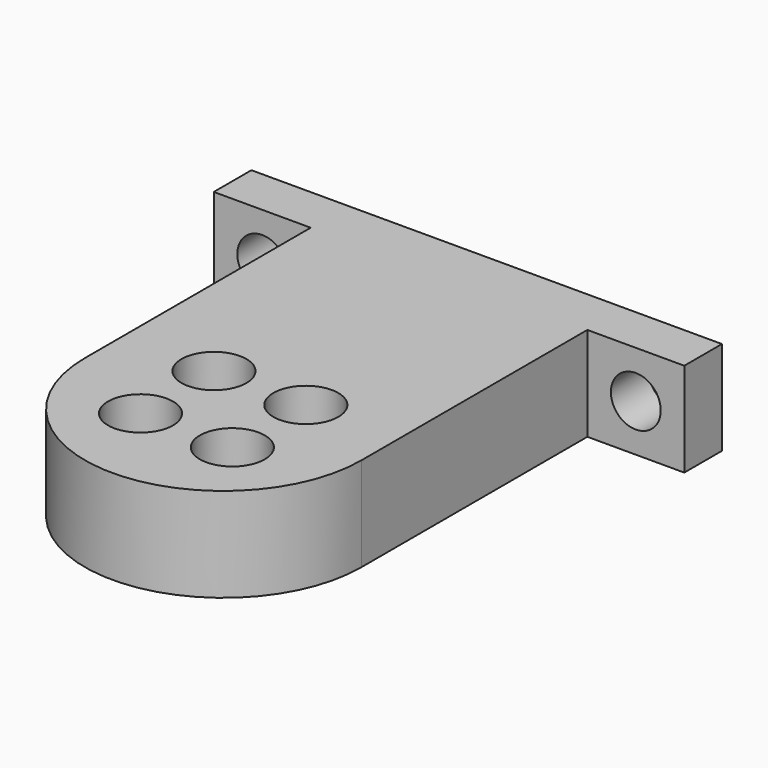
from build123d import *

# Parameters (mm, degrees)
SKETCH_R    = 3.45
PAD_DEPTH   = 5
SKETCH001_R = 2.65
HOLE_DEPTH  = 5.001


with BuildPart() as part:
    # Sketch → Pad (new body, symmetric)
    with BuildSketch(Plane.XY):
        with BuildLine():
            ThreePointArc((-14.7, -35), (0, -49.7), (14.7, -35))
            Line((14.7, -35), (14.7, -5))
            Line((25, -5), (14.7, -5))
            Line((25, 0), (25, -5))
            Line((-25, 0), (25, 0))
            Line((-25, 0), (-25, -5))
            Line((-25, -5), (-14.7, -5))
            Line((-14.7, -5), (-14.7, -35))
        make_face()
        with Locations((-4.879037, -30.120963)):
            Circle(SKETCH_R, mode=Mode.SUBTRACT)
        with Locations((4.879037, -30.120963)):
            Circle(SKETCH_R, mode=Mode.SUBTRACT)
        with Locations((4.879037, -39.879037)):
            Circle(SKETCH_R, mode=Mode.SUBTRACT)
        with Locations((-4.879037, -39.879037)):
            Circle(SKETCH_R, mode=Mode.SUBTRACT)
    extrude(amount=PAD_DEPTH, both=True)

    # Sketch001 → Hole (cut, through all)
    with BuildSketch(Plane.XZ.offset(5)):
        with Locations((-19.85, 0)):
            Circle(SKETCH001_R)
        with Locations((19.85, 0)):
            Circle(SKETCH001_R)
    extrude(amount=-HOLE_DEPTH, mode=Mode.SUBTRACT)


solid = part.part
